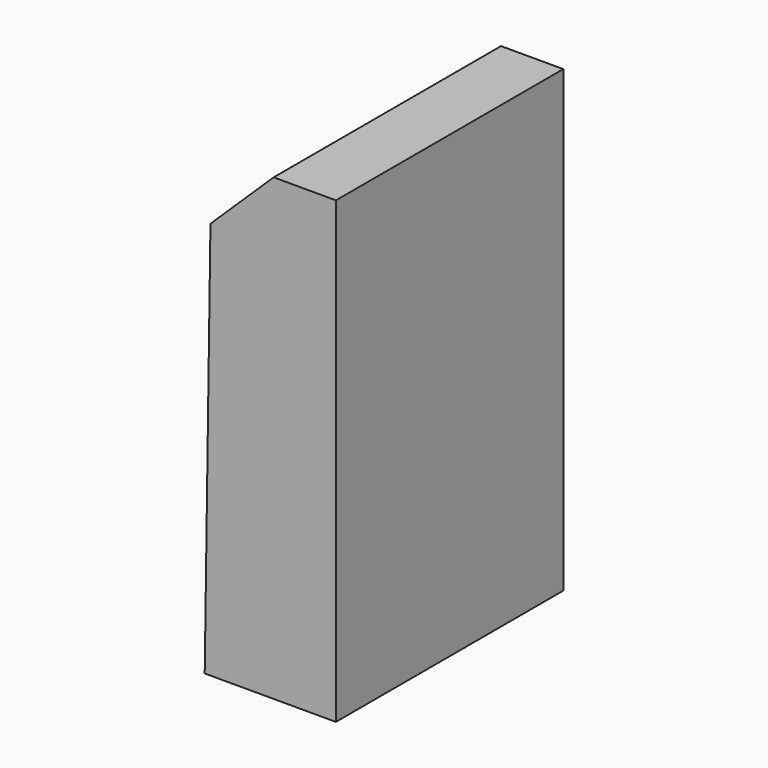
from build123d import *

# Parameters (mm, degrees)
F1_DEPTH = 76.2
F3_D     = 6.35
F3_DEPTH = 19.05
F3_TIP   = 1.9077324654
F5_DEPTH = 3.175
F7_DEPTH = 3.175
F9_D     = 6.35
F9_DEPTH = 19.05
F9_TIP   = 1.9077324654


with BuildPart() as f1:
    # F0 (on Front) → F1 (new body)
    with BuildSketch(Plane.XZ):
        Polygon((1.6724448999, 115.5307332167), (0, 0), (38.1, 0), (38.1, 133.35), (20.0152, 133.35), align=None)
    extrude(amount=F1_DEPTH)

    # F3
    with Locations(Plane(origin=(-56.9291441584, 0, 58.6015890583), x_dir=(0.7172678422, 0, 0.6967975621), z_dir=(-0.6967975621, 0, 0.7172678422))):
        with Locations((94.487669207, -6.35), (94.487669207, -69.85)):
            Hole(F3_D / 2, depth=F3_DEPTH)
            with Locations((0, 0, -(F3_DEPTH + F3_TIP / 2))):  # 118° drill point
                Cone(0, F3_D / 2, F3_TIP, mode=Mode.SUBTRACT)

    # F4 (on face) → F5 (join)
    with BuildSketch(Plane.XZ.offset(76.2)):
        Polygon((20.0152, 133.35), (1.6724448999, 115.5307332167), (0, 0), (38.1, 0), (38.1, 133.35), align=None)
    extrude(amount=F5_DEPTH)

    # F6 (on face) → F7 (join)
    with BuildSketch(Plane(origin=(0, 0, 0), x_dir=(-1, 0, 0), z_dir=(0, 1, 0))):
        Polygon((-38.1, 0), (0, 0), (-1.6724448999, 115.5307332167), (-20.0152, 133.35), (-38.1, 133.35), align=None)
    extrude(amount=F7_DEPTH)

    # F9
    with Locations(Plane(origin=(0, 0, 0), x_dir=(1, 0, 0), z_dir=(0, 0, -1))):
        with Locations((19.05, 9.525), (19.05, 66.675)):
            Hole(F9_D / 2, depth=F9_DEPTH)
            with Locations((0, 0, -(F9_DEPTH + F9_TIP / 2))):  # 118° drill point
                Cone(0, F9_D / 2, F9_TIP, mode=Mode.SUBTRACT)


solid = f1.part
